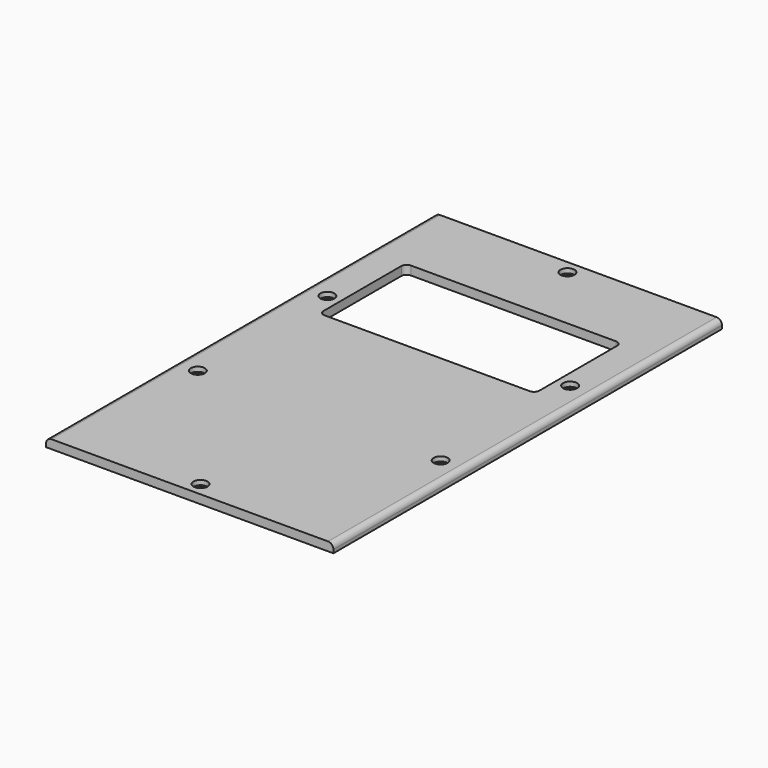
from build123d import *

# Parameters (mm, degrees)
SKETCH_W        = 213
SKETCH_H        = 360
PAD_DEPTH       = 6.5
SKETCH001_R     = 5.2
POCKET_DEPTH    = 3.4
SKETCH002_R     = 3.2
POCKET001_DEPTH = 3.1
FILLET_R        = 4
SKETCH003_W     = 160
SKETCH003_H     = 80
POCKET002_DEPTH = 6.5
FILLET001_R     = 4
FILLET002_R     = 4


with BuildPart() as part:
    # Sketch → Pad (new body)
    with BuildSketch(Plane.XY):
        with Locations((106.5, 180)):
            Rectangle(SKETCH_W, SKETCH_H)
    extrude(amount=PAD_DEPTH)

    # Sketch001 (on Face6 of Pad) → Pocket (cut)
    with BuildSketch(Plane.XY.offset(6.5)):
        with Locations((106.5, 350)):
            Circle(SKETCH001_R)
        with Locations((16.5, 240)):
            Circle(SKETCH001_R)
        with Locations((16.5, 120)):
            Circle(SKETCH001_R)
        with Locations((196.5, 240)):
            Circle(SKETCH001_R)
        with Locations((196.5, 120)):
            Circle(SKETCH001_R)
        with Locations((106.5, 10)):
            Circle(SKETCH001_R)
    extrude(amount=-POCKET_DEPTH, mode=Mode.SUBTRACT)

    # Sketch002 (on Face17 of Pocket) → Pocket001 (cut)
    with BuildSketch(Plane.XY.offset(3.1)):
        with Locations((106.5, 350)):
            Circle(SKETCH002_R)
        with Locations((16.5, 240)):
            Circle(SKETCH002_R)
        with Locations((16.5, 120)):
            Circle(SKETCH002_R)
        with Locations((196.5, 240)):
            Circle(SKETCH002_R)
        with Locations((196.5, 120)):
            Circle(SKETCH002_R)
        with Locations((106.5, 10)):
            Circle(SKETCH002_R)
    extrude(amount=-POCKET001_DEPTH, mode=Mode.SUBTRACT)

    # Fillet
    fillet_edges = [part.edges().sort_by_distance(p)[0] for p in [
        (213, 180, 6.5),
        (0, 180, 6.5),
    ]]
    fillet(fillet_edges, radius=FILLET_R)

    # Sketch003 (on Face5 of Fillet) → Pocket002 (cut)
    with BuildSketch(Plane.XY.offset(6.5)):
        with Locations((106.5, 260)):
            Rectangle(SKETCH003_W, SKETCH003_H)
    extrude(amount=-POCKET002_DEPTH, mode=Mode.SUBTRACT)

    # Fillet001
    fillet001_edges = [part.edges().sort_by_distance(p)[0] for p in [
        (26.5, 220, 3.25),
    ]]
    fillet(fillet001_edges, radius=FILLET001_R)

    # Fillet002
    fillet002_edges = [part.edges().sort_by_distance(p)[0] for p in [
        (186.5, 220, 3.25),
        (186.5, 300, 3.25),
        (26.5, 300, 3.25),
    ]]
    fillet(fillet002_edges, radius=FILLET002_R)


solid = part.part
